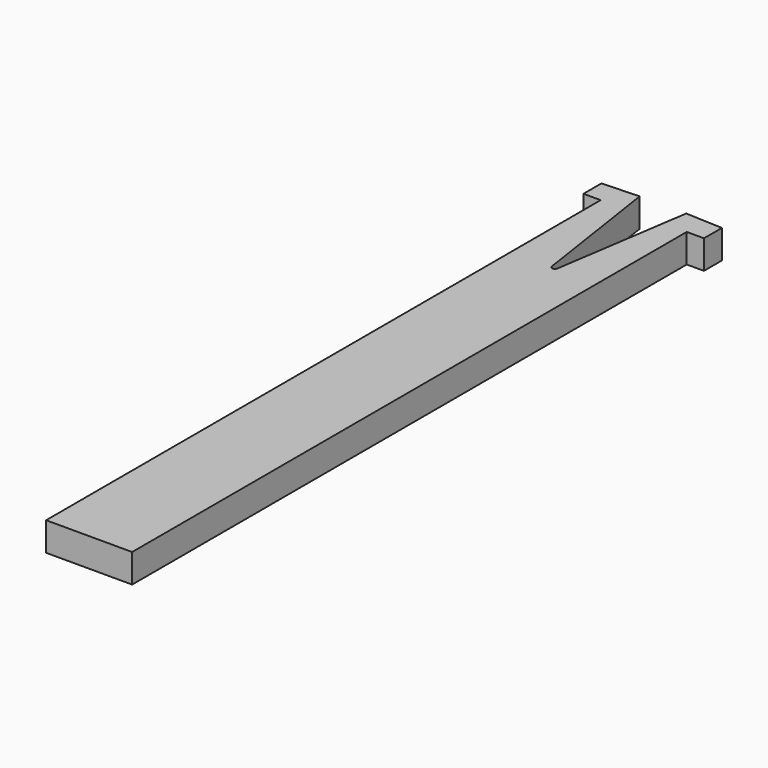
from build123d import *

# Parameters (mm, degrees)
PAD003_DEPTH        = 1
MIRRORED005_FACE6_W = 3
MIRRORED005_FACE6_H = 1
PAD004_DEPTH        = 20


with BuildPart() as part:
    # Sketch006 → Pad003 (new body)
    with BuildSketch(Plane.XY):
        with BuildLine():
            Line((0, 0), (1.5, 0))
            Line((1.5, 0), (1.5, 4.160967))
            Line((1.5, 4.160967), (2.1, 4.160967))
            Line((2.1, 4.160967), (2.1, 4.943956))
            Line((0.810822, 5), (2.1, 4.943956))
            Line((0.098879, 0.28507), (0.810822, 5))
            ThreePointArc((0, 0.2), (0.065219, 0.224194), (0.098879, 0.28507))
            Line((0, 0), (0, 0.2))
        make_face()
    pad003 = extrude(amount=PAD003_DEPTH)

    # Mirrored005: Pad003 across Sketch006 V_Axis
    add(pad003.mirror(Plane(origin=(0, 0, 0), x_dir=(0, 0, 1), z_dir=(1, 0, 0))))

    # Mirrored005 Face6 → Pad004 (add)
    with BuildSketch(Plane(origin=(0, 0, 0.5), x_dir=(-1, 0, 0), z_dir=(0, -1, 0))):
        Rectangle(MIRRORED005_FACE6_W, MIRRORED005_FACE6_H)
    extrude(amount=PAD004_DEPTH)


solid = part.part
